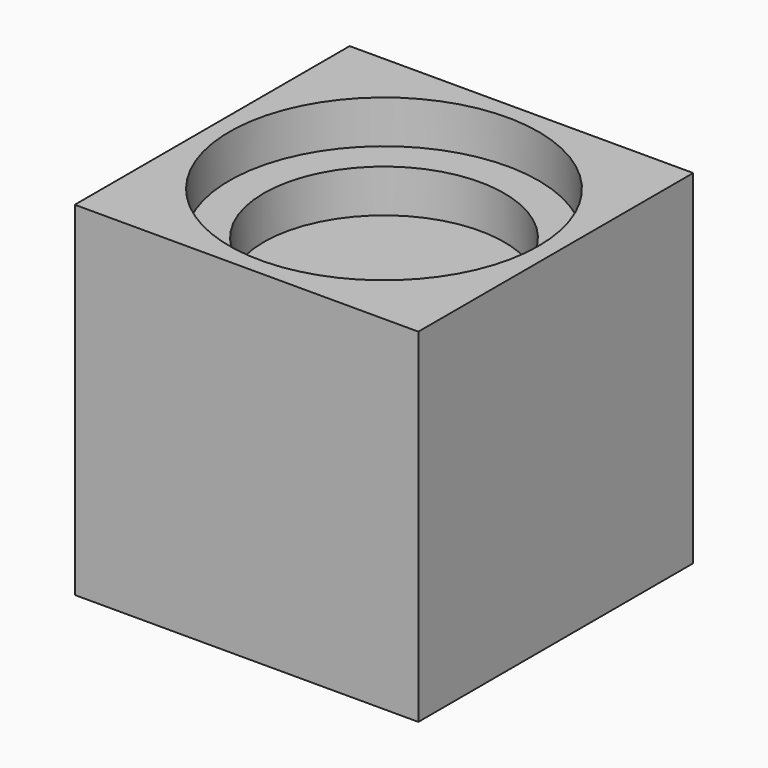
from build123d import *

# Parameters (mm, degrees)
F0_W     = 200
F0_H     = 200
F1_DEPTH = 100
F2_R     = 90
F3_DEPTH = 25
F4_R     = 70
F5_DEPTH = 25


with BuildPart() as f1:
    # F0 (on Front) → F1 (new body, symmetric)
    with BuildSketch(Plane.XZ):
        Rectangle(F0_W, F0_H)
    extrude(amount=F1_DEPTH, both=True)

    # F2 (on face) → F3 (cut)
    with BuildSketch(Plane.XY.offset(100)):
        Circle(F2_R)
    extrude(amount=-F3_DEPTH, mode=Mode.SUBTRACT)

    # F4 (on face) → F5 (cut)
    with BuildSketch(Plane.XY.offset(75)):
        Circle(F4_R)
    extrude(amount=-F5_DEPTH, mode=Mode.SUBTRACT)


solid = f1.part
